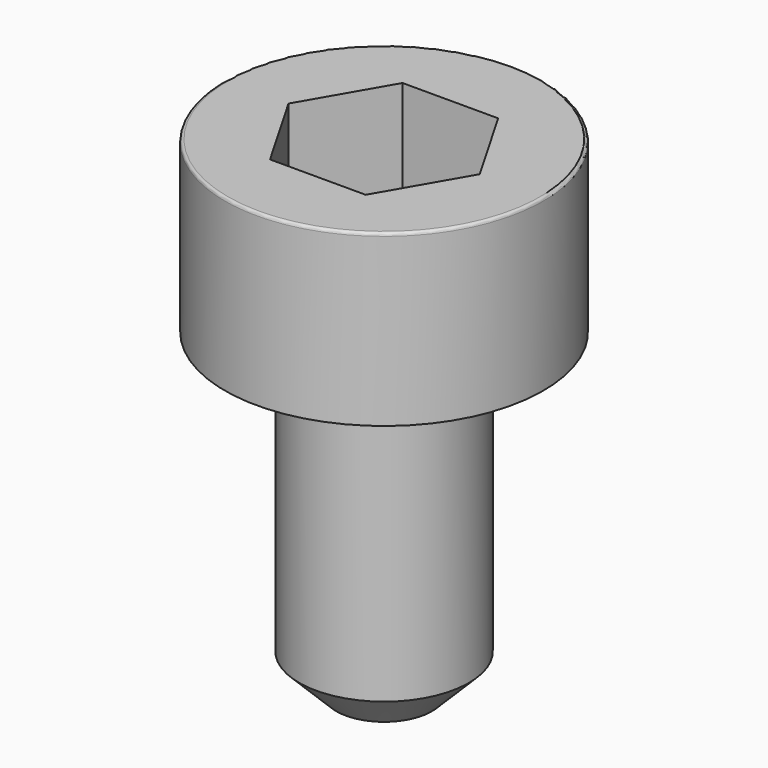
from build123d import *

# Parameters (mm, degrees)
POCKET_DEPTH = 1.56


with BuildPart() as part:
    # Sketch → Revolve (revolve)
    with BuildSketch(Plane.YZ):
        with BuildLine():
            Line((0.799, 0), (1.5, 0))
            Line((1.5, 0), (1.5, 1.57229))
            ThreePointArc((1.5, 1.57229), (1.491884, 1.591884), (1.47229, 1.6))
            Line((1.47229, 1.6), (0, 1.6))
            Line((0, -3), (0, 1.6))
            Line((0.45, -3), (0, -3))
            Line((0.8, -2.65), (0.45, -3))
            Line((0.8, -0.2), (0.8, -2.65))
            Line((0.799, 0), (0.8, -0.2))
        make_face()
    revolve(axis=Axis((0, 0, 0), (0, 0, 1)))

    # Sketch001 → Pocket (cut)
    with BuildSketch(Plane.XY.offset(1.6)):
        Polygon((0.900666, 0), (0.450333, 0.78), (-0.450333, 0.78), (-0.900666, 0), (-0.450333, -0.78), (0.450333, -0.78), align=None)
    extrude(amount=-POCKET_DEPTH, mode=Mode.SUBTRACT)


solid = part.part
